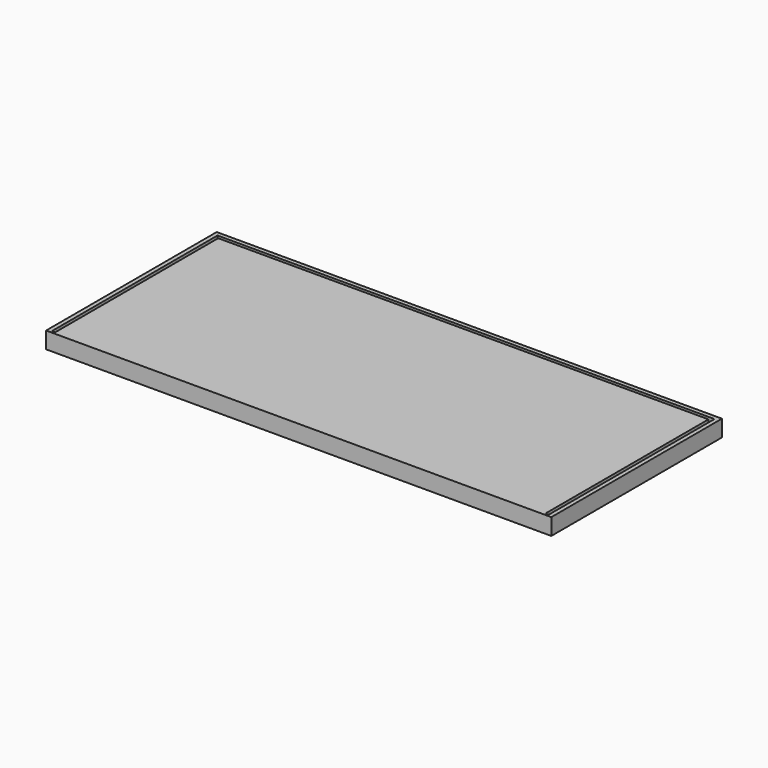
from build123d import *

# Parameters (mm, degrees)
F0_W     = 1220
F0_H     = 515
F1_DEPTH = 20
F2_W     = 1200
F2_H     = 8
F3_DEPTH = 30
F4_W     = 8
F4_H     = 492
F5_DEPTH = 30
F6_W     = 8
F6_H     = 492
F7_DEPTH = 30


with BuildPart() as f1:
    # F0 (on Top) → F1 (new body, symmetric)
    with BuildSketch(Plane.XY):
        Rectangle(F0_W, F0_H)
    extrude(amount=F1_DEPTH, both=True)

    # F2 (on face) → F3 (cut)
    with BuildSketch(Plane.XY.offset(20)):
        with Locations((0, 243.5)):
            Rectangle(F2_W, F2_H)
    extrude(amount=-F3_DEPTH, mode=Mode.SUBTRACT)

    # F4 (on face) → F5 (cut)
    with BuildSketch(Plane.XY.offset(20)):
        with Locations((-596, -6.5)):
            Rectangle(F4_W, F4_H)
    extrude(amount=-F5_DEPTH, mode=Mode.SUBTRACT)

    # F6 (on face) → F7 (cut)
    with BuildSketch(Plane.XY.offset(20)):
        with Locations((596, -6.5)):
            Rectangle(F6_W, F6_H)
    extrude(amount=-F7_DEPTH, mode=Mode.SUBTRACT)


solid = f1.part
